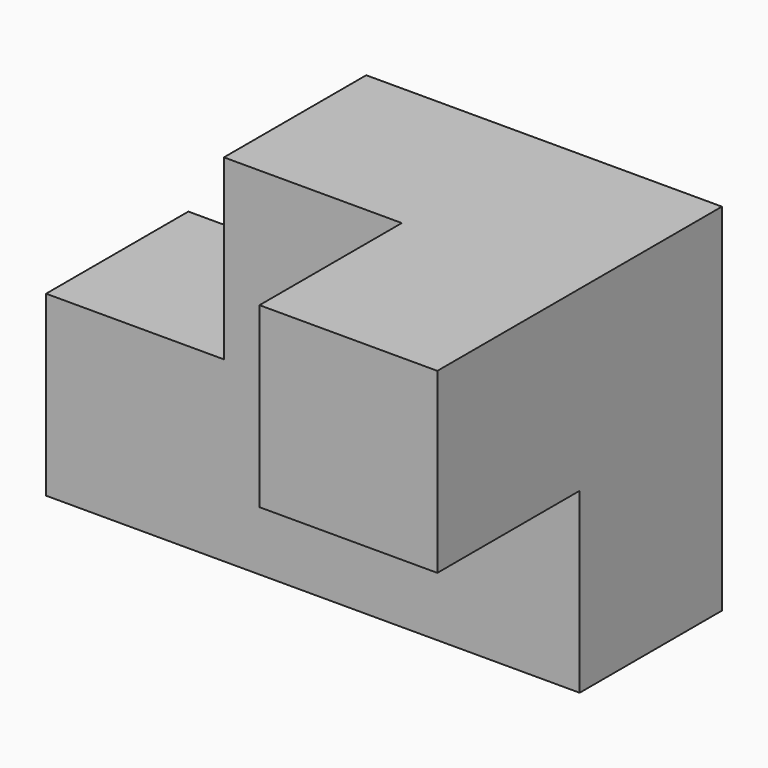
from build123d import *

# Parameters (mm, degrees)
F0_W     = 19.05
F0_H     = 19.05
F1_DEPTH = 38.1
F2_DEPTH = 19.05


with BuildPart() as f1:
    # F0 (on Front) → F1 (new body)
    with BuildSketch(Plane.XZ):
        with Locations((14.218479, 9.525)):
            Rectangle(F0_W, F0_H)
    extrude(amount=F1_DEPTH)

    # F0 (on Front) → F2 (join)
    with BuildSketch(Plane.XZ):
        Polygon((-14.356521, 0), (0, 0), (4.693479, 0), (4.693479, 19.05), (-14.356521, 19.05), align=None)
        Polygon((4.693479, 0), (0, 0), (-14.356521, 0), (-14.356521, -19.05), (4.693479, -19.05), align=None)
        with Locations((14.218479, -9.525)):
            Rectangle(F0_W, F0_H)
        with Locations((14.218479, 9.525)):
            Rectangle(F0_W, F0_H)
        with Locations((-23.881521, -9.525)):
            Rectangle(F0_W, F0_H)
    extrude(amount=F2_DEPTH)


solid = f1.part
